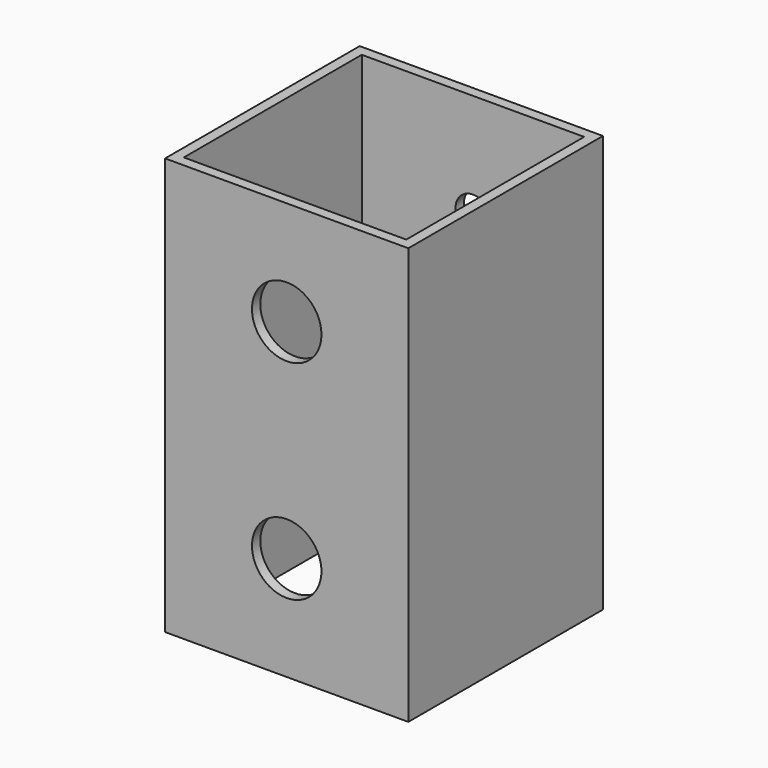
from build123d import *

# Parameters (mm, degrees)
F0_W     = 44.45
F0_H     = 44.45
F0_W_2   = 40.64
F0_H_2   = 40.64
F1_DEPTH = 76.2
F2_R     = 6.35
F3_DEPTH = 25.4
F4_R     = 3.175
F5_DEPTH = 25.4


with BuildPart() as f1:
    # F0 (on Top) → F1 (new body)
    with BuildSketch(Plane.XY):
        Rectangle(F0_W, F0_H)
        Rectangle(F0_W_2, F0_H_2, mode=Mode.SUBTRACT)
    extrude(amount=F1_DEPTH)

    # F2 (on face) → F3 (cut)
    with BuildSketch(Plane.XZ.offset(22.225)):
        with Locations((0, 57.15)):
            Circle(F2_R)
        with Locations((0, 19.05)):
            Circle(F2_R)
    extrude(amount=-F3_DEPTH, mode=Mode.SUBTRACT)

    # F4 (on face) → F5 (cut)
    with BuildSketch(Plane(origin=(0, 22.225, 0), x_dir=(-1, 0, 0), z_dir=(0, 1, 0))):
        with Locations((0, 57.15)):
            Circle(F4_R)
        with Locations((0, 19.05)):
            Circle(F4_R)
    extrude(amount=-F5_DEPTH, mode=Mode.SUBTRACT)


solid = f1.part
